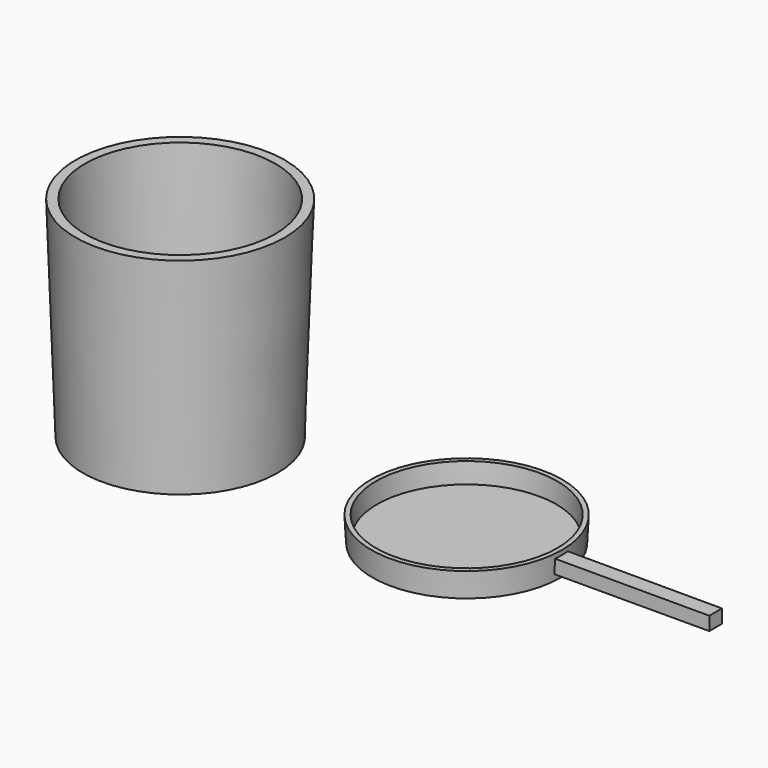
from build123d import *

# Parameters (mm, degrees)
F0_R     = 25.0921905271
F1_DEPTH = 6.604
F1_TAPER = -3
F2_T     = -1.27
F4_W     = 4.2849979363
F4_H     = 3.6847158335
F5_DEPTH = 41.402
F5_TAPER = 0.05
F6_R     = 25.9541631664
F7_DEPTH = 55.88
F7_TAPER = -2
F8_T     = -2.54


with BuildPart() as f1:
    # F0 (on Top) → F1 (new body)
    with BuildSketch(Plane.XY):
        with Locations((35.0047908723, 0)):
            Circle(F0_R)
    extrude(amount=F1_DEPTH, taper=F1_TAPER)

    # F2
    f2_openings = [f1.faces().sort_by_distance(p)[0] for p in [
        (35.004791, 0, 6.604),
    ]]
    offset(amount=F2_T, openings=f2_openings, kind=Kind.INTERSECTION)

    # F4 (on offset) → F5 (join)
    with BuildSketch(Plane.YZ.offset(59.944)):
        with Locations((0, 3.5243721213)):
            Rectangle(F4_W, F4_H)
    extrude(amount=F5_DEPTH, taper=F5_TAPER)


with BuildPart() as f7:
    # F6 (on Top) → F7 (new body)
    with BuildSketch(Plane.XY):
        with Locations((-41.3253754377, 0)):
            Circle(F6_R)
    extrude(amount=F7_DEPTH, taper=F7_TAPER)

    # F8
    f8_openings = [f7.faces().sort_by_distance(p)[0] for p in [
        (-41.325375, 0, 55.88),
        (-41.325375, 0, 0),
    ]]
    offset(amount=F8_T, openings=f8_openings, kind=Kind.INTERSECTION)


solid = Compound([f1.part, f7.part])
